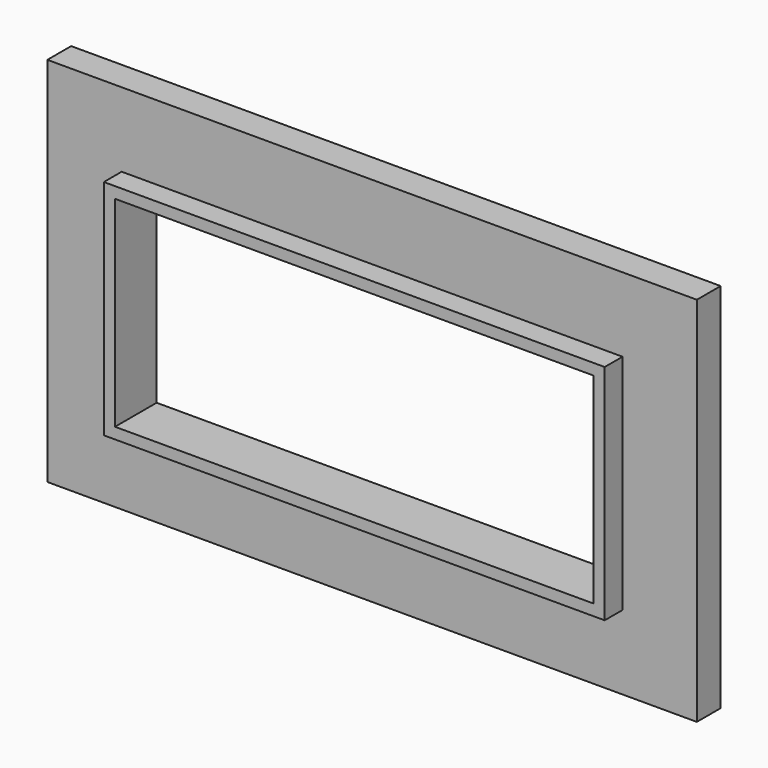
from build123d import *

# Parameters (mm, degrees)
F0_W     = 33.688
F0_H     = 15
F0_W_2   = 32.188
F0_H_2   = 13.5
F1_DEPTH = 3.5
F0_W_3   = 43.688
F0_H_3   = 25
F2_DEPTH = 2


with BuildPart() as f1:
    # F0 (on Front) → F1 (new body)
    with BuildSketch(Plane.XZ):
        with Locations((16.844, -7.5)):
            Rectangle(F0_W, F0_H)
        with Locations((16.844, -7.5)):
            Rectangle(F0_W_2, F0_H_2, mode=Mode.SUBTRACT)
    extrude(amount=F1_DEPTH)

    # F0 (on Front) → F2 (join)
    with BuildSketch(Plane.XZ):
        with Locations((16.844, -7.5)):
            Rectangle(F0_W_3, F0_H_3)
        with Locations((16.844, -7.5)):
            Rectangle(F0_W, F0_H, mode=Mode.SUBTRACT)
    extrude(amount=F2_DEPTH)


solid = f1.part
